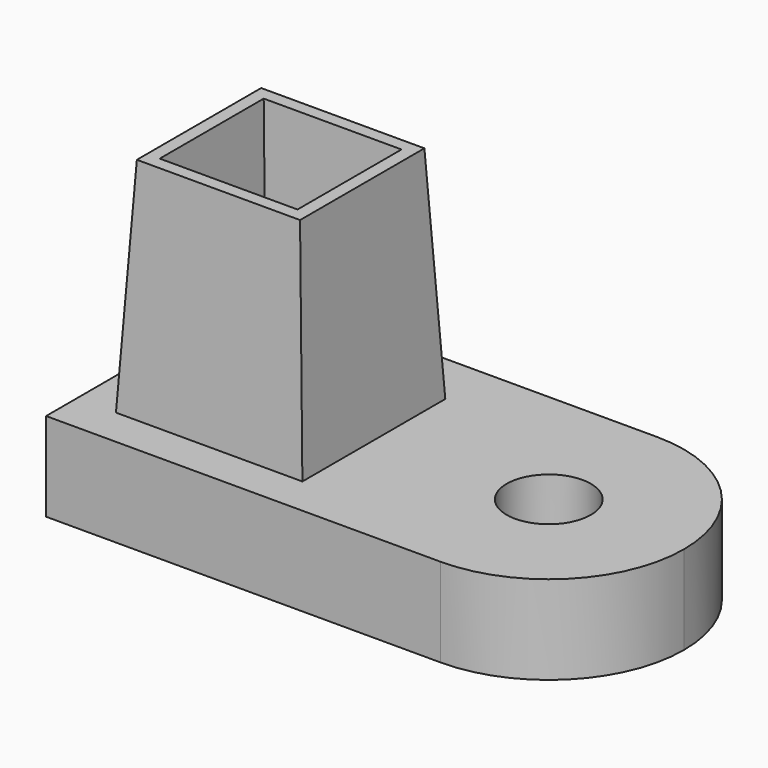
from build123d import *

# Parameters (mm, degrees)
F0_R     = 4.75
F1_DEPTH = 10
F2_W     = 21.0285714286
F2_H     = 20.1493158954
F2_W_2   = 12.9192713482
F2_H_2   = 12.040015815
F3_DEPTH = 25
F3_TAPER = 3


with BuildPart() as f1:
    # F0 (on Top) → F1 (new body)
    with BuildSketch(Plane.XY):
        with BuildLine():
            Line((22.25, 15.25), (-22.25, 15.25))
            Line((-22.25, 15.25), (-22.25, -15.25))
            Line((-22.25, -15.25), (22.25, -15.25))
            ThreePointArc((22.25, -15.25), (7, 0), (22.25, 15.25))
        make_face()
        with BuildLine():
            ThreePointArc((37.5, 0), (33.0333784131, 10.7833784131), (22.25, 15.25))
            ThreePointArc((22.25, 15.25), (7, 0), (22.25, -15.25))
            ThreePointArc((22.25, -15.25), (33.0333784131, -10.7833784131), (37.5, 0))
        make_face()
        with Locations((22.25, 0)):
            Circle(F0_R, mode=Mode.SUBTRACT)
    extrude(amount=F1_DEPTH)

    # F2 (on face) → F3 (join)
    with BuildSketch(Plane.XY.offset(10)):
        with Locations((-7.3357142857, -0.8246579477)):
            Rectangle(F2_W, F2_H)
        with Locations((-7.3357142857, -0.8246579477)):
            Rectangle(F2_W_2, F2_H_2, mode=Mode.SUBTRACT)
    extrude(amount=F3_DEPTH, taper=F3_TAPER)


solid = f1.part
